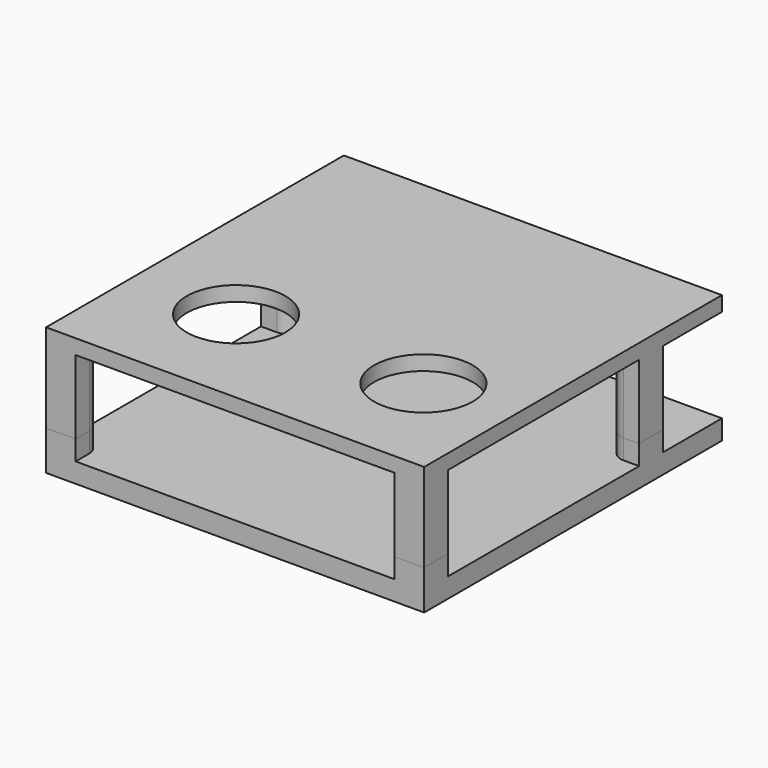
from build123d import *

# Parameters (mm, degrees)
BOX020_W          = 7
BOX020_H          = 70
BOX020_DEPTH      = 3
BOX021_W          = 7
BOX021_H          = 70
BOX021_DEPTH      = 3
BOX019_W          = 76.7
BOX019_H          = 7
BOX019_DEPTH      = 3
BOX013_W          = 77
BOX013_H          = 76
BOX013_DEPTH      = 22
CYLINDER005_R     = 1.25
CYLINDER005_DEPTH = 22
CYLINDER007_R     = 1.25
CYLINDER007_DEPTH = 22
CYLINDER008_R     = 1.25
CYLINDER008_DEPTH = 22
CYLINDER006_R     = 1.25
CYLINDER006_DEPTH = 22
BOX012_W          = 6
BOX012_H          = 6
BOX012_DEPTH      = 19
FILLET005_R       = 2.8
BOX011_W          = 6
BOX011_H          = 6
BOX011_DEPTH      = 19
FILLET006_R       = 2.8
BOX010_W          = 6
BOX010_H          = 6
BOX010_DEPTH      = 19
FILLET007_R       = 2.5
SKETCH001_W       = 76.7
SKETCH001_H       = 75.5
SKETCH001_R       = 10
SKETCH001_R_2     = 1.75
EXTRUDE001_DEPTH  = 3
BOX009_W          = 6
BOX009_H          = 6
BOX009_DEPTH      = 19
FILLET004_R       = 2.5
BOX008_W          = 77
BOX008_H          = 76
BOX008_DEPTH      = 22
CYLINDER_R        = 1.25
CYLINDER_DEPTH    = 22
CYLINDER001_R     = 1.25
CYLINDER001_DEPTH = 22
CYLINDER003_R     = 1.25
CYLINDER003_DEPTH = 22
CYLINDER004_R     = 1.25
CYLINDER004_DEPTH = 22
BOX003_W          = 6
BOX003_H          = 6
BOX003_DEPTH      = 19
FILLET001_R       = 2.8
BOX002_W          = 6
BOX002_H          = 6
BOX002_DEPTH      = 19
FILLET002_R       = 2.8
BOX001_W          = 6
BOX001_H          = 6
BOX001_DEPTH      = 19
FILLET003_R       = 2.5
SKETCH_W          = 76.7
SKETCH_H          = 75.5
SKETCH_R          = 10
SKETCH_R_2        = 1.75
EXTRUDE_DEPTH     = 3
BOX_W             = 6
BOX_H             = 6
BOX_DEPTH         = 19
FILLET_R          = 2.5
BOX022_W          = 77
BOX022_H          = 76
BOX022_DEPTH      = 20
CYLINDER015_R     = 1.75
CYLINDER015_DEPTH = 15.8
CYLINDER016_R     = 2.85
CYLINDER016_DEPTH = 2.5
CYLINDER017_R     = 1.75
CYLINDER017_DEPTH = 15.8
CYLINDER018_R     = 2.85
CYLINDER018_DEPTH = 2.5
CYLINDER019_R     = 1.75
CYLINDER019_DEPTH = 15.8
CYLINDER020_R     = 2.85
CYLINDER020_DEPTH = 2.5
CYLINDER014_R     = 1.75
CYLINDER014_DEPTH = 15.8
CYLINDER013_R     = 2.85
CYLINDER013_DEPTH = 2.5
SKETCH002_W       = 76.7
SKETCH002_H       = 75.5
SKETCH002_R       = 1.75
EXTRUDE002_DEPTH  = 4
BOX018_W          = 77
BOX018_H          = 76
BOX018_DEPTH      = 22
CYLINDER009_R     = 1.75
CYLINDER009_DEPTH = 22
CYLINDER011_R     = 1.75
CYLINDER011_DEPTH = 22
CYLINDER012_R     = 1.75
CYLINDER012_DEPTH = 22
CYLINDER010_R     = 1.75
CYLINDER010_DEPTH = 22
BOX017_W          = 6
BOX017_H          = 6
BOX017_DEPTH      = 19
FILLET009_R       = 2.8
BOX016_W          = 6
BOX016_H          = 6
BOX016_DEPTH      = 19
FILLET010_R       = 2.8
BOX015_W          = 6
BOX015_H          = 6
BOX015_DEPTH      = 19
FILLET011_R       = 2.5
SKETCH003_W       = 76.7
SKETCH003_H       = 75.5
SKETCH003_R       = 10
SKETCH003_R_2     = 1.75
EXTRUDE003_DEPTH  = 3
BOX014_W          = 6
BOX014_H          = 6
BOX014_DEPTH      = 19
FILLET008_R       = 2.5


with BuildPart() as hole_filler_vert:
    # Box020 → Box020 (new body)
    with BuildSketch(Plane.XY):
        with Locations((3.5, 35)):
            Rectangle(BOX020_W, BOX020_H)
    extrude(amount=BOX020_DEPTH)


with BuildPart() as hole_filler_vert001:
    # Box021 → Box021 (new body)
    with BuildSketch(Plane(origin=(69.7, 0, 0), x_dir=(1, 0, 0), z_dir=(0, 0, 1))):
        with Locations((3.5, 35)):
            Rectangle(BOX021_W, BOX021_H)
    extrude(amount=BOX021_DEPTH)


with BuildPart() as screw_hole_filler:
    # Box019 → Box019 (new body)
    with BuildSketch(Plane.XY):
        with Locations((38.35, 3.5)):
            Rectangle(BOX019_W, BOX019_H)
    extrude(amount=BOX019_DEPTH)

    # Fusion003: union hole-filler-vert, hole-filler-vert001
    add(hole_filler_vert.part)
    add(hole_filler_vert001.part)


with BuildPart() as screw_hole_filler_1:
    # Fusion003 placement: moved
    add(screw_hole_filler.part.moved(Location((0, 0, 22))))


with BuildPart() as slicing_cube001:
    # Box013 → Box013 (new body)
    with BuildSketch(Plane.XY):
        with Locations((38.5, 38)):
            Rectangle(BOX013_W, BOX013_H)
    extrude(amount=BOX013_DEPTH)


with BuildPart() as obj1:
    # Cylinder005 → Cylinder005 (new body)
    with BuildSketch(Plane(origin=(3.5, 3.7, 0), x_dir=(1, 0, 0), z_dir=(0, 0, 1))):
        Circle(CYLINDER005_R)
    extrude(amount=CYLINDER005_DEPTH)


with BuildPart() as obj2:
    # Cylinder007 → Cylinder007 (new body)
    with BuildSketch(Plane(origin=(73.2, 3.7, 0), x_dir=(1, 0, 0), z_dir=(0, 0, 1))):
        Circle(CYLINDER007_R)
    extrude(amount=CYLINDER007_DEPTH)


with BuildPart() as obj3:
    # Cylinder008 → Cylinder008 (new body)
    with BuildSketch(Plane(origin=(3.5, 57.5, 0), x_dir=(1, 0, 0), z_dir=(0, 0, 1))):
        Circle(CYLINDER008_R)
    extrude(amount=CYLINDER008_DEPTH)


with BuildPart() as obj4:
    # Cylinder006 → Cylinder006 (new body)
    with BuildSketch(Plane(origin=(73.2, 57.5, 0), x_dir=(1, 0, 0), z_dir=(0, 0, 1))):
        Circle(CYLINDER006_R)
    extrude(amount=CYLINDER006_DEPTH)


with BuildPart() as fillet005:
    # Box012 → Box012 (new body)
    with BuildSketch(Plane(origin=(0, 54.5, 3), x_dir=(1, 0, 0), z_dir=(0, 0, 1))):
        with Locations((3, 3)):
            Rectangle(BOX012_W, BOX012_H)
    extrude(amount=BOX012_DEPTH)

    # Fillet005
    fillet005_edges = [fillet005.edges().sort_by_distance(p)[0] for p in [
        (6, 54.5, 12.5),
        (6, 60.5, 12.5),
    ]]
    fillet(fillet005_edges, radius=FILLET005_R)


with BuildPart() as fillet006:
    # Box011 → Box011 (new body)
    with BuildSketch(Plane(origin=(70.7, 54.5, 3), x_dir=(1, 0, 0), z_dir=(0, 0, 1))):
        with Locations((3, 3)):
            Rectangle(BOX011_W, BOX011_H)
    extrude(amount=BOX011_DEPTH)

    # Fillet006
    fillet006_edges = [fillet006.edges().sort_by_distance(p)[0] for p in [
        (70.7, 54.5, 12.5),
        (70.7, 60.5, 12.5),
    ]]
    fillet(fillet006_edges, radius=FILLET006_R)


with BuildPart() as fillet007:
    # Box010 → Box010 (new body)
    with BuildSketch(Plane(origin=(70.7, 0, 3), x_dir=(1, 0, 0), z_dir=(0, 0, 1))):
        with Locations((3, 3)):
            Rectangle(BOX010_W, BOX010_H)
    extrude(amount=BOX010_DEPTH)

    # Fillet007
    fillet007_edges = [fillet007.edges().sort_by_distance(p)[0] for p in [
        (70.7, 6, 12.5),
    ]]
    fillet(fillet007_edges, radius=FILLET007_R)


with BuildPart() as vacuum_tube_top_plate001:
    # Sketch001 → Extrude001 (new body)
    with BuildSketch(Plane.XY):
        with Locations((38.35, 37.75)):
            Rectangle(SKETCH001_W, SKETCH001_H)
        with Locations((58.7, 22.3)):
            Circle(SKETCH001_R, mode=Mode.SUBTRACT)
        with Locations((20.7, 22.3)):
            Circle(SKETCH001_R, mode=Mode.SUBTRACT)
        with Locations((3.5, 3.7)):
            Circle(SKETCH001_R_2, mode=Mode.SUBTRACT)
        with Locations((73.2, 3.7)):
            Circle(SKETCH001_R_2, mode=Mode.SUBTRACT)
        with Locations((3.5, 57.5)):
            Circle(SKETCH001_R_2, mode=Mode.SUBTRACT)
        with Locations((73.2, 57.5)):
            Circle(SKETCH001_R_2, mode=Mode.SUBTRACT)
    extrude(amount=EXTRUDE001_DEPTH)


with BuildPart() as vacuum_tube_top_plate001_1:
    # Extrude001 placement: moved
    add(vacuum_tube_top_plate001.part.moved(Location((0, 0, 22))))


with BuildPart() as top_plate_without_holes:
    # Box009 → Box009 (new body)
    with BuildSketch(Plane.XY.offset(3)):
        with Locations((3, 3)):
            Rectangle(BOX009_W, BOX009_H)
    extrude(amount=BOX009_DEPTH)

    # Fillet004
    fillet004_edges = [top_plate_without_holes.edges().sort_by_distance(p)[0] for p in [
        (6, 6, 12.5),
    ]]
    fillet(fillet004_edges, radius=FILLET004_R)

    # Fusion001: union Fillet005, Fillet006, Fillet007, vacuum-tube-top-plate001
    add(fillet005.part)
    add(fillet006.part)
    add(fillet007.part)
    add(vacuum_tube_top_plate001_1.part)

    # Cut005: cut obj4
    add(obj4.part, mode=Mode.SUBTRACT)

    # Cut004: cut obj3
    add(obj3.part, mode=Mode.SUBTRACT)

    # Cut006: cut obj2
    add(obj2.part, mode=Mode.SUBTRACT)

    # Cut007: cut obj1
    add(obj1.part, mode=Mode.SUBTRACT)

    # Cut008: cut slicing-cube001
    add(slicing_cube001.part, mode=Mode.SUBTRACT)

    # Fusion004: union screw-hole-filler
    add(screw_hole_filler_1.part)


with BuildPart() as slicing_cube:
    # Box008 → Box008 (new body)
    with BuildSketch(Plane.XY.offset(22)):
        with Locations((38.5, 38)):
            Rectangle(BOX008_W, BOX008_H)
    extrude(amount=BOX008_DEPTH)


with BuildPart() as obj5:
    # Cylinder → Cylinder (new body)
    with BuildSketch(Plane(origin=(3.5, 3.7, 0), x_dir=(1, 0, 0), z_dir=(0, 0, 1))):
        Circle(CYLINDER_R)
    extrude(amount=CYLINDER_DEPTH)


with BuildPart() as obj6:
    # Cylinder001 → Cylinder001 (new body)
    with BuildSketch(Plane(origin=(73.2, 3.7, 0), x_dir=(1, 0, 0), z_dir=(0, 0, 1))):
        Circle(CYLINDER001_R)
    extrude(amount=CYLINDER001_DEPTH)


with BuildPart() as obj7:
    # Cylinder003 → Cylinder003 (new body)
    with BuildSketch(Plane(origin=(3.5, 57.5, 0), x_dir=(1, 0, 0), z_dir=(0, 0, 1))):
        Circle(CYLINDER003_R)
    extrude(amount=CYLINDER003_DEPTH)


with BuildPart() as obj8:
    # Cylinder004 → Cylinder004 (new body)
    with BuildSketch(Plane(origin=(73.2, 57.5, 0), x_dir=(1, 0, 0), z_dir=(0, 0, 1))):
        Circle(CYLINDER004_R)
    extrude(amount=CYLINDER004_DEPTH)


with BuildPart() as fillet001:
    # Box003 → Box003 (new body)
    with BuildSketch(Plane(origin=(0, 54.5, 3), x_dir=(1, 0, 0), z_dir=(0, 0, 1))):
        with Locations((3, 3)):
            Rectangle(BOX003_W, BOX003_H)
    extrude(amount=BOX003_DEPTH)

    # Fillet001
    fillet001_edges = [fillet001.edges().sort_by_distance(p)[0] for p in [
        (6, 54.5, 12.5),
        (6, 60.5, 12.5),
    ]]
    fillet(fillet001_edges, radius=FILLET001_R)


with BuildPart() as fillet002:
    # Box002 → Box002 (new body)
    with BuildSketch(Plane(origin=(70.7, 54.5, 3), x_dir=(1, 0, 0), z_dir=(0, 0, 1))):
        with Locations((3, 3)):
            Rectangle(BOX002_W, BOX002_H)
    extrude(amount=BOX002_DEPTH)

    # Fillet002
    fillet002_edges = [fillet002.edges().sort_by_distance(p)[0] for p in [
        (70.7, 54.5, 12.5),
        (70.7, 60.5, 12.5),
    ]]
    fillet(fillet002_edges, radius=FILLET002_R)


with BuildPart() as fillet003:
    # Box001 → Box001 (new body)
    with BuildSketch(Plane(origin=(70.7, 0, 3), x_dir=(1, 0, 0), z_dir=(0, 0, 1))):
        with Locations((3, 3)):
            Rectangle(BOX001_W, BOX001_H)
    extrude(amount=BOX001_DEPTH)

    # Fillet003
    fillet003_edges = [fillet003.edges().sort_by_distance(p)[0] for p in [
        (70.7, 6, 12.5),
    ]]
    fillet(fillet003_edges, radius=FILLET003_R)


with BuildPart() as vacuum_tube_top_plate:
    # Sketch → Extrude (new body)
    with BuildSketch(Plane.XY):
        with Locations((38.35, 37.75)):
            Rectangle(SKETCH_W, SKETCH_H)
        with Locations((58.7, 22.3)):
            Circle(SKETCH_R, mode=Mode.SUBTRACT)
        with Locations((20.7, 22.3)):
            Circle(SKETCH_R, mode=Mode.SUBTRACT)
        with Locations((3.5, 3.7)):
            Circle(SKETCH_R_2, mode=Mode.SUBTRACT)
        with Locations((73.2, 3.7)):
            Circle(SKETCH_R_2, mode=Mode.SUBTRACT)
        with Locations((3.5, 57.5)):
            Circle(SKETCH_R_2, mode=Mode.SUBTRACT)
        with Locations((73.2, 57.5)):
            Circle(SKETCH_R_2, mode=Mode.SUBTRACT)
    extrude(amount=EXTRUDE_DEPTH)


with BuildPart() as vacuum_tube_top_plate_1:
    # Extrude placement: moved
    add(vacuum_tube_top_plate.part.moved(Location((0, 0, 22))))


with BuildPart() as just_top_plate_with_legs:
    # Box → Box (new body)
    with BuildSketch(Plane.XY.offset(3)):
        with Locations((3, 3)):
            Rectangle(BOX_W, BOX_H)
    extrude(amount=BOX_DEPTH)

    # Fillet
    fillet_edges = [just_top_plate_with_legs.edges().sort_by_distance(p)[0] for p in [
        (6, 6, 12.5),
    ]]
    fillet(fillet_edges, radius=FILLET_R)

    # Fusion: union Fillet001, Fillet002, Fillet003, vacuum-tube-top-plate
    add(fillet001.part)
    add(fillet002.part)
    add(fillet003.part)
    add(vacuum_tube_top_plate_1.part)

    # Cut: cut obj8
    add(obj8.part, mode=Mode.SUBTRACT)

    # Cut001: cut obj7
    add(obj7.part, mode=Mode.SUBTRACT)

    # Cut002: cut obj6
    add(obj6.part, mode=Mode.SUBTRACT)

    # Cut003: cut obj5
    add(obj5.part, mode=Mode.SUBTRACT)

    # Cut009: cut slicing-cube
    add(slicing_cube.part, mode=Mode.SUBTRACT)

    # Fusion005: union top-plate-without-holes]
    add(top_plate_without_holes.part)


with BuildPart() as cube:
    # Box022 → Box022 (new body)
    with BuildSketch(Plane.XY.offset(7)):
        with Locations((38.5, 38)):
            Rectangle(BOX022_W, BOX022_H)
    extrude(amount=BOX022_DEPTH)


with BuildPart() as obj9:
    # Cylinder015 → Cylinder015 (new body)
    with BuildSketch(Plane.XY.offset(2)):
        Circle(CYLINDER015_R)
    extrude(amount=CYLINDER015_DEPTH)


with BuildPart() as obj10:
    # Cylinder016 → Cylinder016 (new body)
    with BuildSketch(Plane.XY):
        Circle(CYLINDER016_R)
    extrude(amount=CYLINDER016_DEPTH)

    # Fusion007: union obj9
    add(obj9.part)


with BuildPart() as obj10_1:
    # Fusion007 placement: moved
    add(obj10.part.moved(Location((73.2, 3.7, -1))))


with BuildPart() as obj11:
    # Cylinder017 → Cylinder017 (new body)
    with BuildSketch(Plane.XY.offset(2)):
        Circle(CYLINDER017_R)
    extrude(amount=CYLINDER017_DEPTH)


with BuildPart() as obj12:
    # Cylinder018 → Cylinder018 (new body)
    with BuildSketch(Plane.XY):
        Circle(CYLINDER018_R)
    extrude(amount=CYLINDER018_DEPTH)

    # Fusion008: union obj11
    add(obj11.part)


with BuildPart() as obj12_1:
    # Fusion008 placement: moved
    add(obj12.part.moved(Location((73.2, 57.5, -1))))


with BuildPart() as obj13:
    # Cylinder019 → Cylinder019 (new body)
    with BuildSketch(Plane.XY.offset(2)):
        Circle(CYLINDER019_R)
    extrude(amount=CYLINDER019_DEPTH)


with BuildPart() as obj14:
    # Cylinder020 → Cylinder020 (new body)
    with BuildSketch(Plane.XY):
        Circle(CYLINDER020_R)
    extrude(amount=CYLINDER020_DEPTH)

    # Fusion009: union obj13
    add(obj13.part)


with BuildPart() as obj14_1:
    # Fusion009 placement: moved
    add(obj14.part.moved(Location((3.5, 57.5, -1))))


with BuildPart() as obj15:
    # Cylinder014 → Cylinder014 (new body)
    with BuildSketch(Plane.XY.offset(2)):
        Circle(CYLINDER014_R)
    extrude(amount=CYLINDER014_DEPTH)


with BuildPart() as compound:
    # Cylinder013 → Cylinder013 (new body)
    with BuildSketch(Plane.XY):
        Circle(CYLINDER013_R)
    extrude(amount=CYLINDER013_DEPTH)

    # Fusion006: union obj15
    add(obj15.part)


with BuildPart() as compound_1:
    # Fusion006 placement: moved
    add(compound.part.moved(Location((3.5, 3.7, -1))))

    # Compound: union obj10, obj12, obj14
    add(obj10_1.part)
    add(obj12_1.part)
    add(obj14_1.part)


with BuildPart() as just_bottom_plate:
    # Sketch002 → Extrude002 (new body)
    with BuildSketch(Plane.XY):
        with Locations((38.35, 37.75)):
            Rectangle(SKETCH002_W, SKETCH002_H)
        with Locations((3.5, 3.7)):
            Circle(SKETCH002_R, mode=Mode.SUBTRACT)
        with Locations((73.2, 3.7)):
            Circle(SKETCH002_R, mode=Mode.SUBTRACT)
        with Locations((3.5, 57.5)):
            Circle(SKETCH002_R, mode=Mode.SUBTRACT)
        with Locations((73.2, 57.5)):
            Circle(SKETCH002_R, mode=Mode.SUBTRACT)
    extrude(amount=EXTRUDE002_DEPTH)


with BuildPart() as just_bottom_plate_1:
    # Extrude002 placement: moved
    add(just_bottom_plate.part.moved(Location((0, 0, -1))))


with BuildPart() as slicing_cube002:
    # Box018 → Box018 (new body)
    with BuildSketch(Plane.XY.offset(22)):
        with Locations((38.5, 38)):
            Rectangle(BOX018_W, BOX018_H)
    extrude(amount=BOX018_DEPTH)


with BuildPart() as obj16:
    # Cylinder009 → Cylinder009 (new body)
    with BuildSketch(Plane(origin=(3.5, 3.7, 0), x_dir=(1, 0, 0), z_dir=(0, 0, 1))):
        Circle(CYLINDER009_R)
    extrude(amount=CYLINDER009_DEPTH)


with BuildPart() as obj17:
    # Cylinder011 → Cylinder011 (new body)
    with BuildSketch(Plane(origin=(73.2, 3.7, 0), x_dir=(1, 0, 0), z_dir=(0, 0, 1))):
        Circle(CYLINDER011_R)
    extrude(amount=CYLINDER011_DEPTH)


with BuildPart() as obj18:
    # Cylinder012 → Cylinder012 (new body)
    with BuildSketch(Plane(origin=(3.5, 57.5, 0), x_dir=(1, 0, 0), z_dir=(0, 0, 1))):
        Circle(CYLINDER012_R)
    extrude(amount=CYLINDER012_DEPTH)


with BuildPart() as obj19:
    # Cylinder010 → Cylinder010 (new body)
    with BuildSketch(Plane(origin=(73.2, 57.5, 0), x_dir=(1, 0, 0), z_dir=(0, 0, 1))):
        Circle(CYLINDER010_R)
    extrude(amount=CYLINDER010_DEPTH)


with BuildPart() as fillet009:
    # Box017 → Box017 (new body)
    with BuildSketch(Plane(origin=(0, 54.5, 3), x_dir=(1, 0, 0), z_dir=(0, 0, 1))):
        with Locations((3, 3)):
            Rectangle(BOX017_W, BOX017_H)
    extrude(amount=BOX017_DEPTH)

    # Fillet009
    fillet009_edges = [fillet009.edges().sort_by_distance(p)[0] for p in [
        (6, 54.5, 12.5),
        (6, 60.5, 12.5),
    ]]
    fillet(fillet009_edges, radius=FILLET009_R)


with BuildPart() as fillet010:
    # Box016 → Box016 (new body)
    with BuildSketch(Plane(origin=(70.7, 54.5, 3), x_dir=(1, 0, 0), z_dir=(0, 0, 1))):
        with Locations((3, 3)):
            Rectangle(BOX016_W, BOX016_H)
    extrude(amount=BOX016_DEPTH)

    # Fillet010
    fillet010_edges = [fillet010.edges().sort_by_distance(p)[0] for p in [
        (70.7, 54.5, 12.5),
        (70.7, 60.5, 12.5),
    ]]
    fillet(fillet010_edges, radius=FILLET010_R)


with BuildPart() as fillet011:
    # Box015 → Box015 (new body)
    with BuildSketch(Plane(origin=(70.7, 0, 3), x_dir=(1, 0, 0), z_dir=(0, 0, 1))):
        with Locations((3, 3)):
            Rectangle(BOX015_W, BOX015_H)
    extrude(amount=BOX015_DEPTH)

    # Fillet011
    fillet011_edges = [fillet011.edges().sort_by_distance(p)[0] for p in [
        (70.7, 6, 12.5),
    ]]
    fillet(fillet011_edges, radius=FILLET011_R)


with BuildPart() as vacuum_tube_top_plate002:
    # Sketch003 → Extrude003 (new body)
    with BuildSketch(Plane.XY):
        with Locations((38.35, 37.75)):
            Rectangle(SKETCH003_W, SKETCH003_H)
        with Locations((58.7, 22.3)):
            Circle(SKETCH003_R, mode=Mode.SUBTRACT)
        with Locations((20.7, 22.3)):
            Circle(SKETCH003_R, mode=Mode.SUBTRACT)
        with Locations((3.5, 3.7)):
            Circle(SKETCH003_R_2, mode=Mode.SUBTRACT)
        with Locations((73.2, 3.7)):
            Circle(SKETCH003_R_2, mode=Mode.SUBTRACT)
        with Locations((3.5, 57.5)):
            Circle(SKETCH003_R_2, mode=Mode.SUBTRACT)
        with Locations((73.2, 57.5)):
            Circle(SKETCH003_R_2, mode=Mode.SUBTRACT)
    extrude(amount=EXTRUDE003_DEPTH)


with BuildPart() as vacuum_tube_top_plate002_1:
    # Extrude003 placement: moved
    add(vacuum_tube_top_plate002.part.moved(Location((0, 0, 22))))


with BuildPart() as just_bottom_plate_with_legs:
    # Box014 → Box014 (new body)
    with BuildSketch(Plane.XY.offset(3)):
        with Locations((3, 3)):
            Rectangle(BOX014_W, BOX014_H)
    extrude(amount=BOX014_DEPTH)

    # Fillet008
    fillet008_edges = [just_bottom_plate_with_legs.edges().sort_by_distance(p)[0] for p in [
        (6, 6, 12.5),
    ]]
    fillet(fillet008_edges, radius=FILLET008_R)

    # Fusion002: union Fillet009, Fillet010, Fillet011, vacuum-tube-top-plate002
    add(fillet009.part)
    add(fillet010.part)
    add(fillet011.part)
    add(vacuum_tube_top_plate002_1.part)

    # Cut011: cut obj19
    add(obj19.part, mode=Mode.SUBTRACT)

    # Cut010: cut obj18
    add(obj18.part, mode=Mode.SUBTRACT)

    # Cut012: cut obj17
    add(obj17.part, mode=Mode.SUBTRACT)

    # Cut013: cut obj16
    add(obj16.part, mode=Mode.SUBTRACT)

    # Cut014: cut slicing-cube002
    add(slicing_cube002.part, mode=Mode.SUBTRACT)

    # Fusion010: union just-bottom-plate
    add(just_bottom_plate_1.part)

    # Cut015: cut Compound
    add(compound_1.part, mode=Mode.SUBTRACT)

    # Cut016: cut Cube
    add(cube.part, mode=Mode.SUBTRACT)


solid = Compound([just_top_plate_with_legs.part, just_bottom_plate_with_legs.part])
